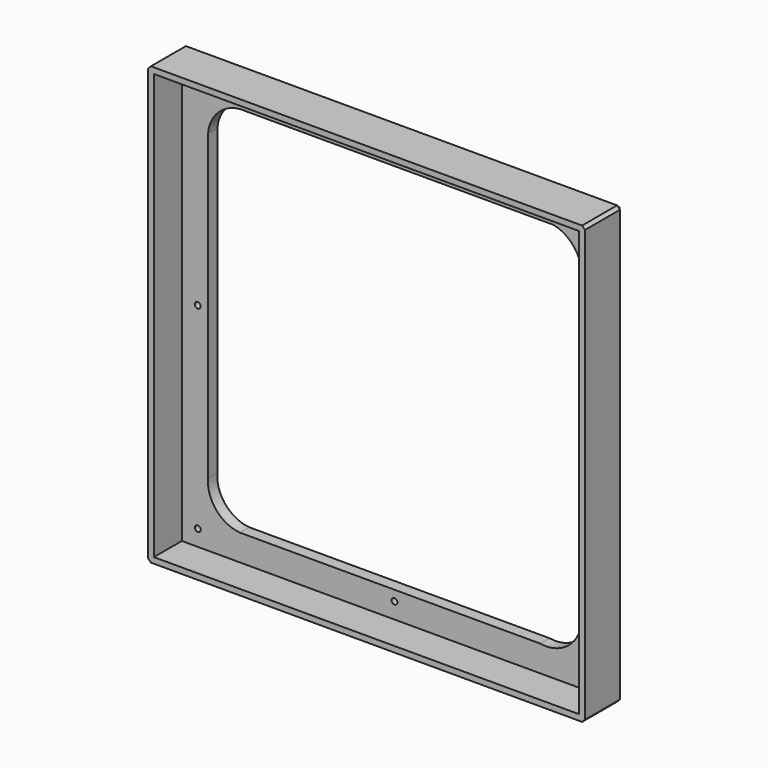
from build123d import *

# Parameters (mm, degrees)
SKETCH009_W     = 150
SKETCH009_H     = 150
SKETCH009_W_2   = 146
SKETCH009_H_2   = 146
PAD003_DEPTH    = 12
SKETCH010_W     = 150
SKETCH010_H     = 150
SKETCH010_R     = 1
PAD004_DEPTH    = 4
CHAMFER003_SIZE = 1


with BuildPart() as part:
    # Sketch009 → Pad003 (new body)
    with BuildSketch(Plane.XZ):
        Rectangle(SKETCH009_W, SKETCH009_H)
        Rectangle(SKETCH009_W_2, SKETCH009_H_2, mode=Mode.SUBTRACT)
    extrude(amount=PAD003_DEPTH)

    # Sketch010 (on Face9 of Pad003) → Pad004 (join)
    with BuildSketch(Plane(origin=(0, 0, 0), x_dir=(1, 0, 0), z_dir=(0, 1, 0))):
        Rectangle(SKETCH010_W, SKETCH010_H)
        with Locations((-67.5, 67.5)):
            Circle(SKETCH010_R, mode=Mode.SUBTRACT)
        with Locations((67.5, 67.5)):
            Circle(SKETCH010_R, mode=Mode.SUBTRACT)
        with Locations((0, 67.5)):
            Circle(SKETCH010_R, mode=Mode.SUBTRACT)
        with Locations((-67.5, 0)):
            Circle(SKETCH010_R, mode=Mode.SUBTRACT)
        with Locations((-67.5, -67.5)):
            Circle(SKETCH010_R, mode=Mode.SUBTRACT)
        with Locations((0, -67.5)):
            Circle(SKETCH010_R, mode=Mode.SUBTRACT)
        with Locations((67.5, -67.5)):
            Circle(SKETCH010_R, mode=Mode.SUBTRACT)
        with BuildLine():
            ThreePointArc((-53, 64), (-61.176409, 59.816751), (-64, 51.077152))
            Line((-64, 51.077152), (-64, -53))
            ThreePointArc((-64, -53), (-59.816751, -61.176409), (-51.077152, -64))
            Line((-51.077152, -64), (54.6127, -64))
            ThreePointArc((54.6127, -64), (60.907852, -60.466964), (64.115604, -54))
            Line((67.115604, -35), (64.115604, -54))
            Line((67.115604, 35), (67.115604, -35))
            Line((64, 54), (67.115604, 35))
            ThreePointArc((64, 54), (59.109644, 61.883516), (50.077152, 64))
            Line((50.077152, 64), (-53, 64))
        make_face(mode=Mode.SUBTRACT)
    extrude(amount=PAD004_DEPTH)

    # Chamfer003
    chamfer003_edges = [part.edges().sort_by_distance(p)[0] for p in [
        (0, 4, -75),
        (-75, 4, 0),
        (0, 4, 75),
        (75, 4, 0),
        (75, 2, -75),
        (75, -6, 75),
        (-75, -6, -75),
        (-75, -6, 75),
    ]]
    chamfer(chamfer003_edges, length=CHAMFER003_SIZE)


with BuildPart() as part_1:
    # Body001 placement: moved
    add(part.part.moved(Location((0, -3, 0))))


solid = part_1.part
